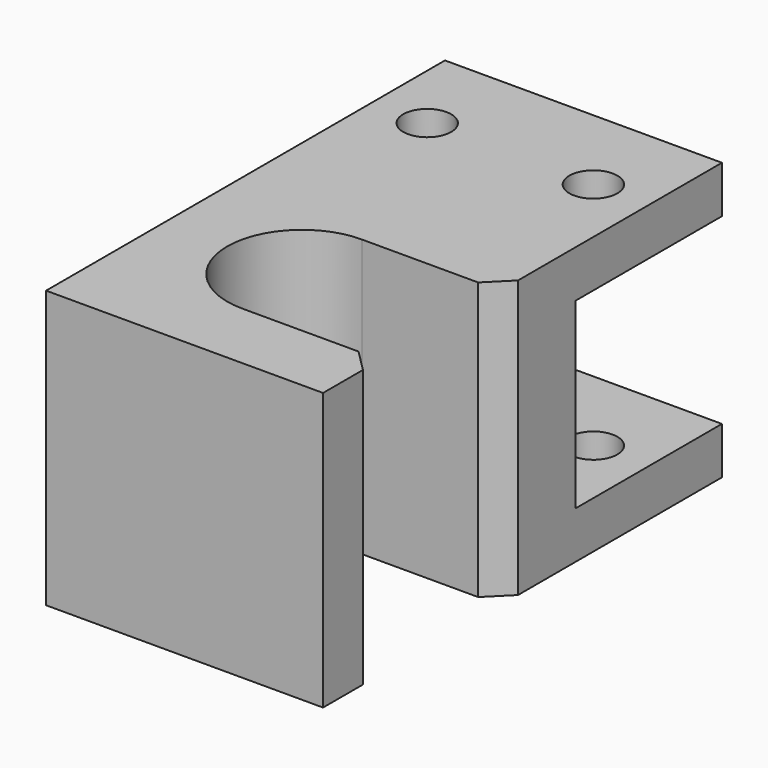
from build123d import *

# Parameters (mm, degrees)
F1_DEPTH = 15.875
F2_W     = 20.955
F2_H     = 20.955
F3_DEPTH = 31.751
F5_D     = 5.5
F6_SIZE  = 2.54


with BuildPart() as f1:
    # F0 (on Top) → F1 (new body, symmetric)
    with BuildSketch(Plane.XY):
        with BuildLine():
            Line((-15.875, -28.575), (15.875, -28.575))
            Line((15.875, -28.575), (15.875, -20.32))
            Line((15.875, -20.32), (0, -20.32))
            ThreePointArc((0, -20.32), (-8.5725, -11.7475), (0, -3.175))
            Line((0, -3.175), (15.875, -3.175))
            Line((15.875, -3.175), (15.875, 28.575))
            Line((15.875, 28.575), (-15.875, 28.575))
            Line((-15.875, 28.575), (-15.875, -28.575))
        make_face()
    extrude(amount=F1_DEPTH, both=True)

    # F2 (on face) → F3 (cut, through all)
    with BuildSketch(Plane.YZ.offset(15.875)):
        with Locations((18.0975, 0)):
            Rectangle(F2_W, F2_H)
    extrude(amount=-F3_DEPTH, mode=Mode.SUBTRACT)

    # F5 (through all)
    with Locations(Plane.XY.offset(15.875)):
        with Locations((-9.525, 18.0975), (9.525, 18.0975)):
            Hole(F5_D / 2)

    # F6
    f6_edges = [f1.edges().sort_by_distance(p)[0] for p in [
        (15.875, -20.32, 0),
        (15.875, -3.175, 0),
    ]]
    chamfer(f6_edges, length=F6_SIZE)


solid = f1.part
